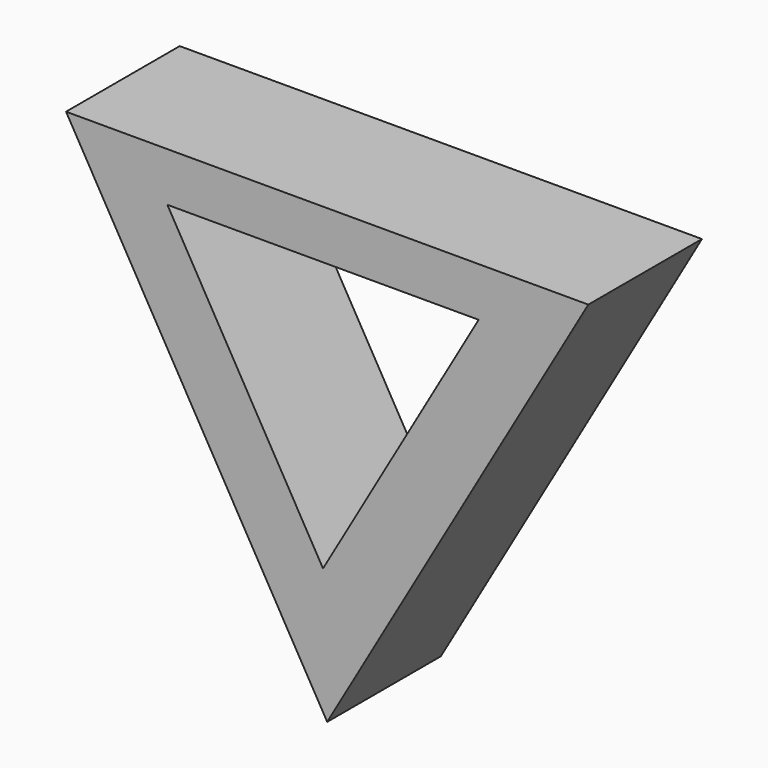
from build123d import *

# Parameters (mm, degrees)
F1_DEPTH = 25.4


with BuildPart() as f1:
    # F0 (on Front) → F1 (new body)
    with BuildSketch(Plane.XZ):
        Polygon((-46.694561, 80.877353), (0, 0), (46.694561, 80.877353), align=None)
        Polygon((-0.743479, 23.911752), (-28.570018, 72.108731), (27.08306, 72.108731), align=None, mode=Mode.SUBTRACT)
    extrude(amount=F1_DEPTH)


solid = f1.part
